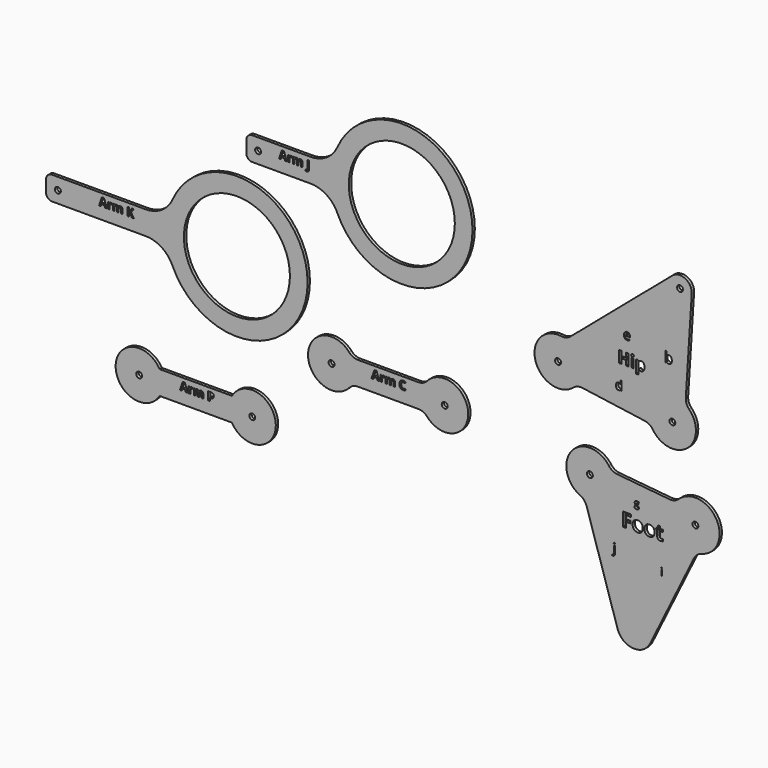
from build123d import *

# Parameters (mm, degrees)
F0_R      = 3.175
F0_R_2    = 57.15
F1_DEPTH  = 3.175
F2_R      = 3.175
F2_R_2    = 57.15
F3_DEPTH  = 3.175
F4_R      = 3.175
F5_DEPTH  = 3.175
F6_R      = 3.175
F7_DEPTH  = 3.175
F8_R      = 3.175
F8_W      = 2.5973723702
F8_H      = 9.5227902008
F9_DEPTH  = 3.175
F10_W     = 0.9204528943
F10_H     = 6.0742796972
F10_R     = 3.175
F11_DEPTH = 3.175


with BuildPart() as f1:
    # F0 (on Front) → F1 (new body)
    with BuildSketch(Plane.XZ):
        with BuildLine():
            Line((-84.5527777471, 124.6368664593), (-147.4690007535, 124.6368664593))
            ThreePointArc((-147.4690007535, 124.6368664593), (-151.959128814, 122.7769945198), (-153.8190007535, 118.2868664593))
            Line((-153.8190007535, 118.2868664593), (-153.8190007535, 105.5868664593))
            ThreePointArc((-153.8190007535, 105.5868664593), (-151.959128814, 101.0967383987), (-147.4690007535, 99.2368664593))
            Line((-147.4690007535, 99.2368664593), (-84.5527777471, 99.2368664593))
            ThreePointArc((-84.5527777471, 99.2368664593), (-67.3339226578, 94.16220206), (-55.6193139255, 80.560395871))
            ThreePointArc((-55.6193139255, 80.560395871), (90.0209992465, 111.9368664593), (-55.6193139255, 143.3133370475))
            ThreePointArc((-55.6193139255, 143.3133370475), (-67.3339226578, 129.7115308585), (-84.5527777471, 124.6368664593))
        make_face()
        with Locations((-141.1190007535, 111.9368664593)):
            Circle(F0_R, mode=Mode.SUBTRACT)
        Polygon((-110.0772225294, 111.9368664593), (-112.0880343789, 111.9368664593), (-112.7255618906, 114.0324251683), (-115.9343861638, 114.0324251683), (-116.5719136754, 111.9368664593), (-118.5827255249, 111.9368664593), (-115.4759826962, 120.773652633), (-113.1955217481, 120.773652633), align=None, mode=Mode.SUBTRACT)
        with BuildLine():
            add(Edge.make_bspline(
                [(-106.5168913956, 118.4460030927), (-105.9843344259, 118.7917317584), (-105.3583633041, 118.7917317584)],
                knots=[0, 0, 0, 1, 1, 1], degree=2))
            add(Edge.make_bspline(
                [(-105.3583633041, 118.7917317584), (-104.9847066961, 118.7917317584), (-104.7381703774, 118.7378019386)],
                knots=[0, 0, 0, 1, 1, 1], degree=2))
            Line((-104.7381703774, 118.7378019386), (-104.8768470566, 117.0178259027))
            add(Edge.make_bspline(
                [(-104.8768470566, 117.0178259027), (-105.1002705955, 117.0775339173), (-105.4180713188, 117.0775339173)],
                knots=[0, 0, 0, 1, 1, 1], degree=2))
            add(Edge.make_bspline(
                [(-105.4180713188, 117.0775339173), (-106.2963569542, 117.0775339173), (-106.7875035266, 116.6258716772)],
                knots=[0, 0, 0, 1, 1, 1], degree=2))
            add(Edge.make_bspline(
                [(-106.7875035266, 116.6258716772), (-107.2786500991, 116.1742094371), (-107.2786500991, 115.3614100113)],
                knots=[0, 0, 0, 1, 1, 1], degree=2))
            Line((-107.2786500991, 115.3614100113), (-107.2786500991, 111.9368664593))
            Line((-107.2786500991, 111.9368664593), (-109.1141900345, 111.9368664593))
            Line((-109.1141900345, 111.9368664593), (-109.1141900345, 118.666537534))
            Line((-109.1141900345, 118.666537534), (-107.7235711117, 118.666537534))
            Line((-107.7235711117, 118.666537534), (-107.4519959482, 117.53401132))
            Line((-107.4519959482, 117.53401132), (-107.3633969586, 117.53401132))
            add(Edge.make_bspline(
                [(-107.3633969586, 117.53401132), (-107.0494483653, 118.100274427), (-106.5168913956, 118.4460030927)],
                knots=[0, 0, 0, 1, 1, 1], degree=2))
        make_face(mode=Mode.SUBTRACT)
        with BuildLine():
            Line((-97.4923138853, 115.3132583866), (-97.4923138853, 111.9368664593))
            Line((-97.4923138853, 111.9368664593), (-99.3278538207, 111.9368664593))
            Line((-99.3278538207, 111.9368664593), (-99.3278538207, 115.8679651037))
            add(Edge.make_bspline(
                [(-99.3278538207, 115.8679651037), (-99.3278538207, 116.5960176699), (-99.5715010419, 116.960043953)],
                knots=[0, 0, 0, 1, 1, 1], degree=2))
            add(Edge.make_bspline(
                [(-99.5715010419, 116.960043953), (-99.8151482631, 117.324070236), (-100.3390379404, 117.324070236)],
                knots=[0, 0, 0, 1, 1, 1], degree=2))
            add(Edge.make_bspline(
                [(-100.3390379404, 117.324070236), (-101.0439777267, 117.324070236), (-101.3627414825, 116.8059587538)],
                knots=[0, 0, 0, 1, 1, 1], degree=2))
            add(Edge.make_bspline(
                [(-101.3627414825, 116.8059587538), (-101.6815052384, 116.2878472715), (-101.6815052384, 115.1033173027)],
                knots=[0, 0, 0, 1, 1, 1], degree=2))
            Line((-101.6815052384, 115.1033173027), (-101.6815052384, 111.9368664593))
            Line((-101.6815052384, 111.9368664593), (-103.5170451738, 111.9368664593))
            Line((-103.5170451738, 111.9368664593), (-103.5170451738, 118.666537534))
            Line((-103.5170451738, 118.666537534), (-102.1148698611, 118.666537534))
            Line((-102.1148698611, 118.666537534), (-101.8683335424, 117.8055864835))
            Line((-101.8683335424, 117.8055864835), (-101.7662520979, 117.8055864835))
            add(Edge.make_bspline(
                [(-101.7662520979, 117.8055864835), (-101.4946769344, 118.2697681461), (-100.9833066795, 118.5307499522)],
                knots=[0, 0, 0, 1, 1, 1], degree=2))
            add(Edge.make_bspline(
                [(-100.9833066795, 118.5307499522), (-100.4719364247, 118.7917317584), (-99.8093700682, 118.7917317584)],
                knots=[0, 0, 0, 1, 1, 1], degree=2))
            add(Edge.make_bspline(
                [(-99.8093700682, 118.7917317584), (-98.2993351161, 118.7917317584), (-97.7619629839, 117.8055864835)],
                knots=[0, 0, 0, 1, 1, 1], degree=2))
            Line((-97.7619629839, 117.8055864835), (-97.6001735247, 117.8055864835))
            add(Edge.make_bspline(
                [(-97.6001735247, 117.8055864835), (-97.3285983612, 118.2755463411), (-96.8027826189, 118.5336390497)],
                knots=[0, 0, 0, 1, 1, 1], degree=2))
            add(Edge.make_bspline(
                [(-96.8027826189, 118.5336390497), (-96.2769668767, 118.7917317584), (-95.6144005201, 118.7917317584)],
                knots=[0, 0, 0, 1, 1, 1], degree=2))
            add(Edge.make_bspline(
                [(-95.6144005201, 118.7917317584), (-94.4703179161, 118.7917317584), (-93.8838311267, 118.2052449689)],
                knots=[0, 0, 0, 1, 1, 1], degree=2))
            add(Edge.make_bspline(
                [(-93.8838311267, 118.2052449689), (-93.2973443373, 117.6187581795), (-93.2973443373, 116.3244425063)],
                knots=[0, 0, 0, 1, 1, 1], degree=2))
            Line((-93.2973443373, 116.3244425063), (-93.2973443373, 111.9368664593))
            Line((-93.2973443373, 111.9368664593), (-95.1386624676, 111.9368664593))
            Line((-95.1386624676, 111.9368664593), (-95.1386624676, 115.8679651037))
            add(Edge.make_bspline(
                [(-95.1386624676, 115.8679651037), (-95.1386624676, 116.5960176699), (-95.3823096888, 116.960043953)],
                knots=[0, 0, 0, 1, 1, 1], degree=2))
            add(Edge.make_bspline(
                [(-95.3823096888, 116.960043953), (-95.6259569101, 117.324070236), (-96.1498465873, 117.324070236)],
                knots=[0, 0, 0, 1, 1, 1], degree=2))
            add(Edge.make_bspline(
                [(-96.1498465873, 117.324070236), (-96.8239693338, 117.324070236), (-97.1581416096, 116.8425539886)],
                knots=[0, 0, 0, 1, 1, 1], degree=2))
            add(Edge.make_bspline(
                [(-97.1581416096, 116.8425539886), (-97.4923138853, 116.3610377411), (-97.4923138853, 115.3132583866)],
                knots=[0, 0, 0, 1, 1, 1], degree=2))
        make_face(mode=Mode.SUBTRACT)
        with BuildLine():
            add(Edge.make_bspline(
                [(-86.9037716032, 110.1552563436), (-87.607748357, 109.3482351128), (-88.9868108898, 109.3482351128)],
                knots=[0, 0, 0, 1, 1, 1], degree=2))
            add(Edge.make_bspline(
                [(-88.9868108898, 109.3482351128), (-89.6185602065, 109.3482351128), (-90.0885200641, 109.4811335971)],
                knots=[0, 0, 0, 1, 1, 1], degree=2))
            Line((-90.0885200641, 109.4811335971), (-90.0885200641, 111.033541979))
            add(Edge.make_bspline(
                [(-90.0885200641, 111.033541979), (-89.6070038166, 110.9141259496), (-89.2102344287, 110.9141259496)],
                knots=[0, 0, 0, 1, 1, 1], degree=2))
            add(Edge.make_bspline(
                [(-89.2102344287, 110.9141259496), (-88.5958196969, 110.9141259496), (-88.3309857608, 111.2964498501)],
                knots=[0, 0, 0, 1, 1, 1], degree=2))
            add(Edge.make_bspline(
                [(-88.3309857608, 111.2964498501), (-88.0661518246, 111.6787737506), (-88.0661518246, 112.4915731763)],
                knots=[0, 0, 0, 1, 1, 1], degree=2))
            Line((-88.0661518246, 112.4915731763), (-88.0661518246, 120.7370573982))
            Line((-88.0661518246, 120.7370573982), (-86.1997948494, 120.7370573982))
            Line((-86.1997948494, 120.7370573982), (-86.1997948494, 112.5031295663))
            add(Edge.make_bspline(
                [(-86.1997948494, 112.5031295663), (-86.1997948494, 110.9622775744), (-86.9037716032, 110.1552563436)],
                knots=[0, 0, 0, 1, 1, 1], degree=2))
        make_face(mode=Mode.SUBTRACT)
        with Locations((13.8209992465, 111.9368664593)):
            Circle(F0_R_2, mode=Mode.SUBTRACT)
    extrude(amount=F1_DEPTH)


with BuildPart() as f3:
    # F2 (on Front) → F3 (new body)
    with BuildSketch(Plane.XZ):
        with BuildLine():
            Line((-262.3535406851, 16.9797487695), (-363.3697636914, 16.9797487695))
            ThreePointArc((-363.3697636914, 16.9797487695), (-367.859891752, 15.11987683), (-369.7197636914, 10.6297487695))
            Line((-369.7197636914, 10.6297487695), (-369.7197636914, -2.0702512305))
            ThreePointArc((-369.7197636914, -2.0702512305), (-367.859891752, -6.5603792911), (-363.3697636914, -8.4202512305))
            Line((-363.3697636914, -8.4202512305), (-262.3535406851, -8.4202512305))
            ThreePointArc((-262.3535406851, -8.4202512305), (-245.1346855957, -13.4949156298), (-233.4200768634, -27.0967218188))
            ThreePointArc((-233.4200768634, -27.0967218188), (-87.7797636914, 4.2797487695), (-233.4200768634, 35.6562193577))
            ThreePointArc((-233.4200768634, 35.6562193577), (-245.1346855957, 22.0544131687), (-262.3535406851, 16.9797487695))
        make_face()
        with Locations((-357.0197636914, 4.2797487695)):
            Circle(F2_R, mode=Mode.SUBTRACT)
        Polygon((-304.1366382498, 4.2797487695), (-306.1474500993, 4.2797487695), (-306.784977611, 6.3753074785), (-309.9938018842, 6.3753074785), (-310.6313293958, 4.2797487695), (-312.6421412453, 4.2797487695), (-309.5353984166, 13.1165349432), (-307.2549374685, 13.1165349432), align=None, mode=Mode.SUBTRACT)
        with BuildLine():
            add(Edge.make_bspline(
                [(-300.576307116, 10.7888854029), (-300.0437501463, 11.1346140686), (-299.4177790245, 11.1346140686)],
                knots=[0, 0, 0, 1, 1, 1], degree=2))
            add(Edge.make_bspline(
                [(-299.4177790245, 11.1346140686), (-299.0441224165, 11.1346140686), (-298.7975860978, 11.0806842489)],
                knots=[0, 0, 0, 1, 1, 1], degree=2))
            Line((-298.7975860978, 11.0806842489), (-298.9362627771, 9.3607082129))
            add(Edge.make_bspline(
                [(-298.9362627771, 9.3607082129), (-299.1596863159, 9.4204162276), (-299.4774870392, 9.4204162276)],
                knots=[0, 0, 0, 1, 1, 1], degree=2))
            add(Edge.make_bspline(
                [(-299.4774870392, 9.4204162276), (-300.3557726746, 9.4204162276), (-300.8469192471, 8.9687539874)],
                knots=[0, 0, 0, 1, 1, 1], degree=2))
            add(Edge.make_bspline(
                [(-300.8469192471, 8.9687539874), (-301.3380658195, 8.5170917473), (-301.3380658195, 7.7042923216)],
                knots=[0, 0, 0, 1, 1, 1], degree=2))
            Line((-301.3380658195, 7.7042923216), (-301.3380658195, 4.2797487695))
            Line((-301.3380658195, 4.2797487695), (-303.1736057549, 4.2797487695))
            Line((-303.1736057549, 4.2797487695), (-303.1736057549, 11.0094198443))
            Line((-303.1736057549, 11.0094198443), (-301.7829868322, 11.0094198443))
            Line((-301.7829868322, 11.0094198443), (-301.5114116686, 9.8768936302))
            Line((-301.5114116686, 9.8768936302), (-301.422812679, 9.8768936302))
            add(Edge.make_bspline(
                [(-301.422812679, 9.8768936302), (-301.1088640857, 10.4431567372), (-300.576307116, 10.7888854029)],
                knots=[0, 0, 0, 1, 1, 1], degree=2))
        make_face(mode=Mode.SUBTRACT)
        with BuildLine():
            Line((-291.5517296057, 7.6561406968), (-291.5517296057, 4.2797487695))
            Line((-291.5517296057, 4.2797487695), (-293.3872695411, 4.2797487695))
            Line((-293.3872695411, 4.2797487695), (-293.3872695411, 8.2108474139))
            add(Edge.make_bspline(
                [(-293.3872695411, 8.2108474139), (-293.3872695411, 8.9388999801), (-293.6309167623, 9.3029262632)],
                knots=[0, 0, 0, 1, 1, 1], degree=2))
            add(Edge.make_bspline(
                [(-293.6309167623, 9.3029262632), (-293.8745639835, 9.6669525463), (-294.3984536608, 9.6669525463)],
                knots=[0, 0, 0, 1, 1, 1], degree=2))
            add(Edge.make_bspline(
                [(-294.3984536608, 9.6669525463), (-295.1033934471, 9.6669525463), (-295.4221572029, 9.148841064)],
                knots=[0, 0, 0, 1, 1, 1], degree=2))
            add(Edge.make_bspline(
                [(-295.4221572029, 9.148841064), (-295.7409209588, 8.6307295817), (-295.7409209588, 7.4461996129)],
                knots=[0, 0, 0, 1, 1, 1], degree=2))
            Line((-295.7409209588, 7.4461996129), (-295.7409209588, 4.2797487695))
            Line((-295.7409209588, 4.2797487695), (-297.5764608942, 4.2797487695))
            Line((-297.5764608942, 4.2797487695), (-297.5764608942, 11.0094198443))
            Line((-297.5764608942, 11.0094198443), (-296.1742855815, 11.0094198443))
            Line((-296.1742855815, 11.0094198443), (-295.9277492628, 10.1484687938))
            Line((-295.9277492628, 10.1484687938), (-295.8256678183, 10.1484687938))
            add(Edge.make_bspline(
                [(-295.8256678183, 10.1484687938), (-295.5540926548, 10.6126504563), (-295.0427223999, 10.8736322625)],
                knots=[0, 0, 0, 1, 1, 1], degree=2))
            add(Edge.make_bspline(
                [(-295.0427223999, 10.8736322625), (-294.5313521451, 11.1346140686), (-293.8687857886, 11.1346140686)],
                knots=[0, 0, 0, 1, 1, 1], degree=2))
            add(Edge.make_bspline(
                [(-293.8687857886, 11.1346140686), (-292.3587508365, 11.1346140686), (-291.8213787043, 10.1484687938)],
                knots=[0, 0, 0, 1, 1, 1], degree=2))
            Line((-291.8213787043, 10.1484687938), (-291.6595892451, 10.1484687938))
            add(Edge.make_bspline(
                [(-291.6595892451, 10.1484687938), (-291.3880140816, 10.6184286513), (-290.8621983393, 10.8765213599)],
                knots=[0, 0, 0, 1, 1, 1], degree=2))
            add(Edge.make_bspline(
                [(-290.8621983393, 10.8765213599), (-290.3363825971, 11.1346140686), (-289.6738162405, 11.1346140686)],
                knots=[0, 0, 0, 1, 1, 1], degree=2))
            add(Edge.make_bspline(
                [(-289.6738162405, 11.1346140686), (-288.5297336365, 11.1346140686), (-287.9432468471, 10.5481272792)],
                knots=[0, 0, 0, 1, 1, 1], degree=2))
            add(Edge.make_bspline(
                [(-287.9432468471, 10.5481272792), (-287.3567600577, 9.9616404897), (-287.3567600577, 8.6673248165)],
                knots=[0, 0, 0, 1, 1, 1], degree=2))
            Line((-287.3567600577, 8.6673248165), (-287.3567600577, 4.2797487695))
            Line((-287.3567600577, 4.2797487695), (-289.198078188, 4.2797487695))
            Line((-289.198078188, 4.2797487695), (-289.198078188, 8.2108474139))
            add(Edge.make_bspline(
                [(-289.198078188, 8.2108474139), (-289.198078188, 8.9388999801), (-289.4417254093, 9.3029262632)],
                knots=[0, 0, 0, 1, 1, 1], degree=2))
            add(Edge.make_bspline(
                [(-289.4417254093, 9.3029262632), (-289.6853726305, 9.6669525463), (-290.2092623077, 9.6669525463)],
                knots=[0, 0, 0, 1, 1, 1], degree=2))
            add(Edge.make_bspline(
                [(-290.2092623077, 9.6669525463), (-290.8833850542, 9.6669525463), (-291.21755733, 9.1854362988)],
                knots=[0, 0, 0, 1, 1, 1], degree=2))
            add(Edge.make_bspline(
                [(-291.21755733, 9.1854362988), (-291.5517296057, 8.7039200513), (-291.5517296057, 7.6561406968)],
                knots=[0, 0, 0, 1, 1, 1], degree=2))
        make_face(mode=Mode.SUBTRACT)
        Polygon((-278.1405390809, 9.1854362988), (-275.0472787071, 4.2797487695), (-277.165950196, 4.2797487695), (-279.4714499889, 7.9874238751), (-280.2592105698, 7.421160768), (-280.2592105698, 4.2797487695), (-282.125567545, 4.2797487695), (-282.125567545, 13.0799397084), (-280.2592105698, 13.0799397084), (-280.2592105698, 9.0525378145), (-279.5253798087, 10.0887607791), (-277.1409113511, 13.0799397084), (-275.070391487, 13.0799397084), align=None, mode=Mode.SUBTRACT)
        with Locations((-163.9797636914, 4.2797487695)):
            Circle(F2_R_2, mode=Mode.SUBTRACT)
    extrude(amount=F3_DEPTH)


with BuildPart() as f5:
    # F4 (on Front) → F5 (new body)
    with BuildSketch(Plane.XZ):
        with BuildLine():
            Line((31.6179642555, -51.5044320703), (-33.505909116, -51.5044320703))
            ThreePointArc((-33.505909116, -51.5044320703), (-38.6906624049, -50.3978928708), (-42.9719302207, -47.2710987369))
            ThreePointArc((-42.9719302207, -47.2710987369), (-87.3039724302, -64.2044320703), (-42.9719302207, -81.1377654036))
            ThreePointArc((-42.9719302207, -81.1377654036), (-38.6906624049, -78.0109712697), (-33.505909116, -76.9044320703))
            Line((-33.505909116, -76.9044320703), (31.6179642555, -76.9044320703))
            ThreePointArc((31.6179642555, -76.9044320703), (36.8027175444, -78.0109712697), (41.0839853603, -81.1377654036))
            ThreePointArc((41.0839853603, -81.1377654036), (85.4160275698, -64.2044320703), (41.0839853603, -47.2710987369))
            ThreePointArc((41.0839853603, -47.2710987369), (36.8027175444, -50.3978928708), (31.6179642555, -51.5044320703))
        make_face()
        with Locations((-61.9039724302, -64.2044320703)):
            Circle(F4_R, mode=Mode.SUBTRACT)
        Polygon((-10.3348872621, -64.2044320703), (-12.3456991115, -64.2044320703), (-12.9832266232, -62.1088733612), (-16.1920508964, -62.1088733612), (-16.8295784081, -64.2044320703), (-18.8403902575, -64.2044320703), (-15.7336474288, -55.3676458965), (-13.4531864807, -55.3676458965), align=None, mode=Mode.SUBTRACT)
        with BuildLine():
            add(Edge.make_bspline(
                [(-6.7745561282, -57.6952954368), (-6.2419991585, -57.3495667711), (-5.6160280368, -57.3495667711)],
                knots=[0, 0, 0, 1, 1, 1], degree=2))
            add(Edge.make_bspline(
                [(-5.6160280368, -57.3495667711), (-5.2423714287, -57.3495667711), (-4.99583511, -57.4034965909)],
                knots=[0, 0, 0, 1, 1, 1], degree=2))
            Line((-4.99583511, -57.4034965909), (-5.1345117893, -59.1234726269))
            add(Edge.make_bspline(
                [(-5.1345117893, -59.1234726269), (-5.3579353281, -59.0637646122), (-5.6757360514, -59.0637646122)],
                knots=[0, 0, 0, 1, 1, 1], degree=2))
            add(Edge.make_bspline(
                [(-5.6757360514, -59.0637646122), (-6.5540216869, -59.0637646122), (-7.0451682593, -59.5154268523)],
                knots=[0, 0, 0, 1, 1, 1], degree=2))
            add(Edge.make_bspline(
                [(-7.0451682593, -59.5154268523), (-7.5363148317, -59.9670890924), (-7.5363148317, -60.7798885182)],
                knots=[0, 0, 0, 1, 1, 1], degree=2))
            Line((-7.5363148317, -60.7798885182), (-7.5363148317, -64.2044320703))
            Line((-7.5363148317, -64.2044320703), (-9.3718547671, -64.2044320703))
            Line((-9.3718547671, -64.2044320703), (-9.3718547671, -57.4747609955))
            Line((-9.3718547671, -57.4747609955), (-7.9812358444, -57.4747609955))
            Line((-7.9812358444, -57.4747609955), (-7.7096606808, -58.6072872096))
            Line((-7.7096606808, -58.6072872096), (-7.6210616913, -58.6072872096))
            add(Edge.make_bspline(
                [(-7.6210616913, -58.6072872096), (-7.3071130979, -58.0410241025), (-6.7745561282, -57.6952954368)],
                knots=[0, 0, 0, 1, 1, 1], degree=2))
        make_face(mode=Mode.SUBTRACT)
        with BuildLine():
            Line((2.2500213821, -60.8280401429), (2.2500213821, -64.2044320703))
            Line((2.2500213821, -64.2044320703), (0.4144814467, -64.2044320703))
            Line((0.4144814467, -64.2044320703), (0.4144814467, -60.2733334258))
            add(Edge.make_bspline(
                [(0.4144814467, -60.2733334258), (0.4144814467, -59.5452808596), (0.1708342254, -59.1812545766)],
                knots=[0, 0, 0, 1, 1, 1], degree=2))
            add(Edge.make_bspline(
                [(0.1708342254, -59.1812545766), (-0.0728129958, -58.8172282935), (-0.596702673, -58.8172282935)],
                knots=[0, 0, 0, 1, 1, 1], degree=2))
            add(Edge.make_bspline(
                [(-0.596702673, -58.8172282935), (-1.3016424593, -58.8172282935), (-1.6204062152, -59.3353397757)],
                knots=[0, 0, 0, 1, 1, 1], degree=2))
            add(Edge.make_bspline(
                [(-1.6204062152, -59.3353397757), (-1.939169971, -59.853451258), (-1.939169971, -61.0379812268)],
                knots=[0, 0, 0, 1, 1, 1], degree=2))
            Line((-1.939169971, -61.0379812268), (-1.939169971, -64.2044320703))
            Line((-1.939169971, -64.2044320703), (-3.7747099064, -64.2044320703))
            Line((-3.7747099064, -64.2044320703), (-3.7747099064, -57.4747609955))
            Line((-3.7747099064, -57.4747609955), (-2.3725345937, -57.4747609955))
            Line((-2.3725345937, -57.4747609955), (-2.125998275, -58.335712046))
            Line((-2.125998275, -58.335712046), (-2.0239168306, -58.335712046))
            add(Edge.make_bspline(
                [(-2.0239168306, -58.335712046), (-1.752341667, -57.8715303834), (-1.2409714122, -57.6105485773)],
                knots=[0, 0, 0, 1, 1, 1], degree=2))
            add(Edge.make_bspline(
                [(-1.2409714122, -57.6105485773), (-0.7296011573, -57.3495667711), (-0.0670348008, -57.3495667711)],
                knots=[0, 0, 0, 1, 1, 1], degree=2))
            add(Edge.make_bspline(
                [(-0.0670348008, -57.3495667711), (1.4430001513, -57.3495667711), (1.9803722835, -58.335712046)],
                knots=[0, 0, 0, 1, 1, 1], degree=2))
            Line((1.9803722835, -58.335712046), (2.1421617426, -58.335712046))
            add(Edge.make_bspline(
                [(2.1421617426, -58.335712046), (2.4137369062, -57.8657521884), (2.9395526485, -57.6076594798)],
                knots=[0, 0, 0, 1, 1, 1], degree=2))
            add(Edge.make_bspline(
                [(2.9395526485, -57.6076594798), (3.4653683907, -57.3495667711), (4.1279347472, -57.3495667711)],
                knots=[0, 0, 0, 1, 1, 1], degree=2))
            add(Edge.make_bspline(
                [(4.1279347472, -57.3495667711), (5.2720173512, -57.3495667711), (5.8585041407, -57.9360535606)],
                knots=[0, 0, 0, 1, 1, 1], degree=2))
            add(Edge.make_bspline(
                [(5.8585041407, -57.9360535606), (6.4449909301, -58.52254035), (6.4449909301, -59.8168560232)],
                knots=[0, 0, 0, 1, 1, 1], degree=2))
            Line((6.4449909301, -59.8168560232), (6.4449909301, -64.2044320703))
            Line((6.4449909301, -64.2044320703), (4.6036727997, -64.2044320703))
            Line((4.6036727997, -64.2044320703), (4.6036727997, -60.2733334258))
            add(Edge.make_bspline(
                [(4.6036727997, -60.2733334258), (4.6036727997, -59.5452808596), (4.3600255785, -59.1812545766)],
                knots=[0, 0, 0, 1, 1, 1], degree=2))
            add(Edge.make_bspline(
                [(4.3600255785, -59.1812545766), (4.1163783573, -58.8172282935), (3.59248868, -58.8172282935)],
                knots=[0, 0, 0, 1, 1, 1], degree=2))
            add(Edge.make_bspline(
                [(3.59248868, -58.8172282935), (2.9183659336, -58.8172282935), (2.5841936578, -59.2987445409)],
                knots=[0, 0, 0, 1, 1, 1], degree=2))
            add(Edge.make_bspline(
                [(2.5841936578, -59.2987445409), (2.2500213821, -59.7802607884), (2.2500213821, -60.8280401429)],
                knots=[0, 0, 0, 1, 1, 1], degree=2))
        make_face(mode=Mode.SUBTRACT)
        with BuildLine():
            add(Edge.make_bspline(
                [(16.395042668, -57.0057641704), (15.8961918356, -56.8314552889), (15.4146755881, -56.8314552889)],
                knots=[0, 0, 0, 1, 1, 1], degree=2))
            add(Edge.make_bspline(
                [(15.4146755881, -56.8314552889), (14.3611180387, -56.8314552889), (13.7832985417, -57.6230679997)],
                knots=[0, 0, 0, 1, 1, 1], degree=2))
            add(Edge.make_bspline(
                [(13.7832985417, -57.6230679997), (13.2054790447, -58.4146807106), (13.2054790447, -59.8284124132)],
                knots=[0, 0, 0, 1, 1, 1], degree=2))
            add(Edge.make_bspline(
                [(13.2054790447, -59.8284124132), (13.2054790447, -62.7714397178), (15.4146755881, -62.7714397178)],
                knots=[0, 0, 0, 1, 1, 1], degree=2))
            add(Edge.make_bspline(
                [(15.4146755881, -62.7714397178), (16.3411128483, -62.7714397178), (17.6585413014, -62.3091841202)],
                knots=[0, 0, 0, 1, 1, 1], degree=2))
            Line((17.6585413014, -62.3091841202), (17.6585413014, -63.873148892))
            add(Edge.make_bspline(
                [(17.6585413014, -63.873148892), (16.5760927771, -64.3257741646), (15.2394036741, -64.3257741646)],
                knots=[0, 0, 0, 1, 1, 1], degree=2))
            add(Edge.make_bspline(
                [(15.2394036741, -64.3257741646), (13.3191168791, -64.3257741646), (12.3021545644, -63.1605048457)],
                knots=[0, 0, 0, 1, 1, 1], degree=2))
            add(Edge.make_bspline(
                [(12.3021545644, -63.1605048457), (11.2851922498, -61.9952355268), (11.2851922498, -59.8168560232)],
                knots=[0, 0, 0, 1, 1, 1], degree=2))
            add(Edge.make_bspline(
                [(11.2851922498, -59.8168560232), (11.2851922498, -58.4435716854), (11.7850061146, -57.4112008508)],
                knots=[0, 0, 0, 1, 1, 1], degree=2))
            add(Edge.make_bspline(
                [(11.7850061146, -57.4112008508), (12.2848199795, -56.3788300162), (13.2208875646, -55.8289384616)],
                knots=[0, 0, 0, 1, 1, 1], degree=2))
            add(Edge.make_bspline(
                [(13.2208875646, -55.8289384616), (14.1569551497, -55.279046907), (15.4146755881, -55.279046907)],
                knots=[0, 0, 0, 1, 1, 1], degree=2))
            add(Edge.make_bspline(
                [(15.4146755881, -55.279046907), (16.6955088064, -55.279046907), (17.9898244797, -55.8973137687)],
                knots=[0, 0, 0, 1, 1, 1], degree=2))
            Line((17.9898244797, -55.8973137687), (17.3888922028, -57.4150529808))
            add(Edge.make_bspline(
                [(17.3888922028, -57.4150529808), (16.8938935004, -57.180073052), (16.395042668, -57.0057641704)],
                knots=[0, 0, 0, 1, 1, 1], degree=2))
        make_face(mode=Mode.SUBTRACT)
        with Locations((60.0160275698, -64.2044320703)):
            Circle(F4_R, mode=Mode.SUBTRACT)
    extrude(amount=F5_DEPTH)


with BuildPart() as f7:
    # F6 (on Front) → F7 (new body)
    with BuildSketch(Plane.XZ):
        with BuildLine():
            Line((-169.4220794215, -129.8281465054), (-247.3479889093, -129.8281465054))
            ThreePointArc((-247.3479889093, -129.8281465054), (-294.7450341654, -142.5281465054), (-247.3479889093, -155.2281465054))
            Line((-247.3479889093, -155.2281465054), (-169.4220794215, -155.2281465054))
            ThreePointArc((-169.4220794215, -155.2281465054), (-122.0250341654, -142.5281465054), (-169.4220794215, -129.8281465054))
        make_face()
        with Locations((-269.3450341654, -142.5281465054)):
            Circle(F6_R, mode=Mode.SUBTRACT)
        Polygon((-216.995645966, -142.5281465054), (-219.0064578155, -142.5281465054), (-219.6439853271, -140.4325877963), (-222.8528096003, -140.4325877963), (-223.490337112, -142.5281465054), (-225.5011489615, -142.5281465054), (-222.3944061327, -133.6913603316), (-220.1139451847, -133.6913603316), align=None, mode=Mode.SUBTRACT)
        with BuildLine():
            add(Edge.make_bspline(
                [(-213.4353148321, -136.0190098719), (-212.9027578624, -135.6732812062), (-212.2767867407, -135.6732812062)],
                knots=[0, 0, 0, 1, 1, 1], degree=2))
            add(Edge.make_bspline(
                [(-212.2767867407, -135.6732812062), (-211.9031301327, -135.6732812062), (-211.656593814, -135.727211026)],
                knots=[0, 0, 0, 1, 1, 1], degree=2))
            Line((-211.656593814, -135.727211026), (-211.7952704932, -137.447187062))
            add(Edge.make_bspline(
                [(-211.7952704932, -137.447187062), (-212.0186940321, -137.3874790473), (-212.3364947554, -137.3874790473)],
                knots=[0, 0, 0, 1, 1, 1], degree=2))
            add(Edge.make_bspline(
                [(-212.3364947554, -137.3874790473), (-213.2147803908, -137.3874790473), (-213.7059269632, -137.8391412874)],
                knots=[0, 0, 0, 1, 1, 1], degree=2))
            add(Edge.make_bspline(
                [(-213.7059269632, -137.8391412874), (-214.1970735357, -138.2908035275), (-214.1970735357, -139.1036029533)],
                knots=[0, 0, 0, 1, 1, 1], degree=2))
            Line((-214.1970735357, -139.1036029533), (-214.1970735357, -142.5281465054))
            Line((-214.1970735357, -142.5281465054), (-216.032613471, -142.5281465054))
            Line((-216.032613471, -142.5281465054), (-216.032613471, -135.7984754306))
            Line((-216.032613471, -135.7984754306), (-214.6419945483, -135.7984754306))
            Line((-214.6419945483, -135.7984754306), (-214.3704193848, -136.9310016447))
            Line((-214.3704193848, -136.9310016447), (-214.2818203952, -136.9310016447))
            add(Edge.make_bspline(
                [(-214.2818203952, -136.9310016447), (-213.9678718019, -136.3647385376), (-213.4353148321, -136.0190098719)],
                knots=[0, 0, 0, 1, 1, 1], degree=2))
        make_face(mode=Mode.SUBTRACT)
        with BuildLine():
            Line((-204.4107373219, -139.151754578), (-204.4107373219, -142.5281465054))
            Line((-204.4107373219, -142.5281465054), (-206.2462772573, -142.5281465054))
            Line((-206.2462772573, -142.5281465054), (-206.2462772573, -138.5970478609))
            add(Edge.make_bspline(
                [(-206.2462772573, -138.5970478609), (-206.2462772573, -137.8689952947), (-206.4899244785, -137.5049690117)],
                knots=[0, 0, 0, 1, 1, 1], degree=2))
            add(Edge.make_bspline(
                [(-206.4899244785, -137.5049690117), (-206.7335716997, -137.1409427286), (-207.257461377, -137.1409427286)],
                knots=[0, 0, 0, 1, 1, 1], degree=2))
            add(Edge.make_bspline(
                [(-207.257461377, -137.1409427286), (-207.9624011633, -137.1409427286), (-208.2811649191, -137.6590542108)],
                knots=[0, 0, 0, 1, 1, 1], degree=2))
            add(Edge.make_bspline(
                [(-208.2811649191, -137.6590542108), (-208.599928675, -138.1771656931), (-208.599928675, -139.3616956619)],
                knots=[0, 0, 0, 1, 1, 1], degree=2))
            Line((-208.599928675, -139.3616956619), (-208.599928675, -142.5281465054))
            Line((-208.599928675, -142.5281465054), (-210.4354686103, -142.5281465054))
            Line((-210.4354686103, -142.5281465054), (-210.4354686103, -135.7984754306))
            Line((-210.4354686103, -135.7984754306), (-209.0332932977, -135.7984754306))
            Line((-209.0332932977, -135.7984754306), (-208.786756979, -136.6594264811))
            Line((-208.786756979, -136.6594264811), (-208.6846755345, -136.6594264811))
            add(Edge.make_bspline(
                [(-208.6846755345, -136.6594264811), (-208.4131003709, -136.1952448185), (-207.9017301161, -135.9342630124)],
                knots=[0, 0, 0, 1, 1, 1], degree=2))
            add(Edge.make_bspline(
                [(-207.9017301161, -135.9342630124), (-207.3903598613, -135.6732812062), (-206.7277935048, -135.6732812062)],
                knots=[0, 0, 0, 1, 1, 1], degree=2))
            add(Edge.make_bspline(
                [(-206.7277935048, -135.6732812062), (-205.2177585527, -135.6732812062), (-204.6803864205, -136.6594264811)],
                knots=[0, 0, 0, 1, 1, 1], degree=2))
            Line((-204.6803864205, -136.6594264811), (-204.5185969613, -136.6594264811))
            add(Edge.make_bspline(
                [(-204.5185969613, -136.6594264811), (-204.2470217977, -136.1894666235), (-203.7212060555, -135.9313739149)],
                knots=[0, 0, 0, 1, 1, 1], degree=2))
            add(Edge.make_bspline(
                [(-203.7212060555, -135.9313739149), (-203.1953903132, -135.6732812062), (-202.5328239567, -135.6732812062)],
                knots=[0, 0, 0, 1, 1, 1], degree=2))
            add(Edge.make_bspline(
                [(-202.5328239567, -135.6732812062), (-201.3887413527, -135.6732812062), (-200.8022545633, -136.2597679957)],
                knots=[0, 0, 0, 1, 1, 1], degree=2))
            add(Edge.make_bspline(
                [(-200.8022545633, -136.2597679957), (-200.2157677738, -136.8462547851), (-200.2157677738, -138.1405704583)],
                knots=[0, 0, 0, 1, 1, 1], degree=2))
            Line((-200.2157677738, -138.1405704583), (-200.2157677738, -142.5281465054))
            Line((-200.2157677738, -142.5281465054), (-202.0570859042, -142.5281465054))
            Line((-202.0570859042, -142.5281465054), (-202.0570859042, -138.5970478609))
            add(Edge.make_bspline(
                [(-202.0570859042, -138.5970478609), (-202.0570859042, -137.8689952947), (-202.3007331254, -137.5049690117)],
                knots=[0, 0, 0, 1, 1, 1], degree=2))
            add(Edge.make_bspline(
                [(-202.3007331254, -137.5049690117), (-202.5443803467, -137.1409427286), (-203.0682700239, -137.1409427286)],
                knots=[0, 0, 0, 1, 1, 1], degree=2))
            add(Edge.make_bspline(
                [(-203.0682700239, -137.1409427286), (-203.7423927704, -137.1409427286), (-204.0765650461, -137.622458976)],
                knots=[0, 0, 0, 1, 1, 1], degree=2))
            add(Edge.make_bspline(
                [(-204.0765650461, -137.622458976), (-204.4107373219, -138.1039752235), (-204.4107373219, -139.151754578)],
                knots=[0, 0, 0, 1, 1, 1], degree=2))
        make_face(mode=Mode.SUBTRACT)
        with BuildLine():
            add(Edge.make_bspline(
                [(-189.7389372612, -134.4174868328), (-188.9059141531, -135.1070180992), (-188.9059141531, -136.4725981771)],
                knots=[0, 0, 0, 1, 1, 1], degree=2))
            add(Edge.make_bspline(
                [(-188.9059141531, -136.4725981771), (-188.9059141531, -137.8940341396), (-189.7938301134, -138.6461625182)],
                knots=[0, 0, 0, 1, 1, 1], degree=2))
            add(Edge.make_bspline(
                [(-189.7938301134, -138.6461625182), (-190.6817460738, -139.3982908967), (-192.3189013152, -139.3982908967)],
                knots=[0, 0, 0, 1, 1, 1], degree=2))
            Line((-192.3189013152, -139.3982908967), (-193.118218286, -139.3982908967))
            Line((-193.118218286, -139.3982908967), (-193.118218286, -142.5281465054))
            Line((-193.118218286, -142.5281465054), (-194.9845752612, -142.5281465054))
            Line((-194.9845752612, -142.5281465054), (-194.9845752612, -133.7279555664))
            Line((-194.9845752612, -133.7279555664), (-192.1744464409, -133.7279555664))
            add(Edge.make_bspline(
                [(-192.1744464409, -133.7279555664), (-190.5719603693, -133.7279555664), (-189.7389372612, -134.4174868328)],
                knots=[0, 0, 0, 1, 1, 1], degree=2))
        make_face(mode=Mode.SUBTRACT)
        with Locations((-147.4250341654, -142.5281465054)):
            Circle(F6_R, mode=Mode.SUBTRACT)
    extrude(amount=F7_DEPTH)


with BuildPart() as f9:
    # F8 (on Front) → F9 (new body)
    with BuildSketch(Plane.XZ):
        with BuildLine():
            Line((208.6363991479, 0.6081502339), (275.6468091682, -8.7729322489))
            ThreePointArc((275.6468091682, -8.7729322489), (280.6280774795, -10.5876117462), (284.4344927087, -14.2777741774))
            ThreePointArc((284.4344927087, -14.2777741774), (321.58472272, -19.8165103097), (323.6299616373, 17.6886118152))
            ThreePointArc((323.6299616373, 17.6886118152), (320.7806461175, 22.1593496442), (320.0047598873, 27.4037844302))
            Line((320.0047598873, 27.4037844302), (326.411643929, 128.3425935842))
            ThreePointArc((326.411643929, 128.3425935842), (319.4233442257, 140.5030132113), (305.5000612537, 138.8135370999))
            Line((305.5000612537, 138.8135370999), (195.6511125905, 45.2078220696))
            ThreePointArc((195.6511125905, 45.2078220696), (190.9871085847, 42.6872740538), (185.7004654957, 42.2904107068))
            ThreePointArc((185.7004654957, 42.2904107068), (157.8859778887, 10.0222426963), (198.674876535, -2.2719077341))
            ThreePointArc((198.674876535, -2.2719077341), (203.3483043137, 0.2311241204), (208.6363991479, 0.6081502339))
        make_face()
        with Locations((182.2733485264, 17.1226760197)):
            Circle(F8_R, mode=Mode.SUBTRACT)
        with BuildLine():
            Line((249.8996977855, 11.2637253478), (249.7594211359, 12.1968700169))
            Line((249.7594211359, 12.1968700169), (249.7024972781, 12.1968700169))
            add(Edge.make_bspline(
                [(249.7024972781, 12.1968700169), (248.9726521013, 11.1356466678), (247.5170277374, 11.1356466678)],
                knots=[0, 0, 0, 1, 1, 1], degree=2))
            add(Edge.make_bspline(
                [(247.5170277374, 11.1356466678), (246.15085515, 11.1356466678), (245.3915315468, 12.0698078342)],
                knots=[0, 0, 0, 1, 1, 1], degree=2))
            add(Edge.make_bspline(
                [(245.3915315468, 12.0698078342), (244.6322079436, 13.0039690007), (244.6322079436, 14.7259156994)],
                knots=[0, 0, 0, 1, 1, 1], degree=2))
            add(Edge.make_bspline(
                [(244.6322079436, 14.7259156994), (244.6322079436, 16.447862398), (245.3945810392, 17.4013370163)],
                knots=[0, 0, 0, 1, 1, 1], degree=2))
            add(Edge.make_bspline(
                [(245.3945810392, 17.4013370163), (246.1569541348, 18.3548116345), (247.5170277374, 18.3548116345)],
                knots=[0, 0, 0, 1, 1, 1], degree=2))
            add(Edge.make_bspline(
                [(247.5170277374, 18.3548116345), (248.9340251978, 18.3548116345), (249.6902993086, 17.3240832092)],
                knots=[0, 0, 0, 1, 1, 1], degree=2))
            Line((249.6902993086, 17.3240832092), (249.7736521004, 17.3240832092))
            Line((249.7736521004, 17.3240832092), (249.7289262121, 17.8262329549))
            Line((249.7289262121, 17.8262329549), (249.7024972781, 18.316184731))
            Line((249.7024972781, 18.316184731), (249.7024972781, 21.1501796518))
            Line((249.7024972781, 21.1501796518), (250.7576216425, 21.1501796518))
            Line((250.7576216425, 21.1501796518), (250.7576216425, 11.2637253478))
            Line((250.7576216425, 11.2637253478), (249.8996977855, 11.2637253478))
        make_face(mode=Mode.SUBTRACT)
        with Locations((305.5313770069, -0.1327583447)):
            Circle(F8_R, mode=Mode.SUBTRACT)
        Polygon((258.3158573131, 49.5044369527), (258.3158573131, 37.0517671108), (255.6830538403, 37.0517671108), (255.6830538403, 42.4263928338), (250.752679635, 42.4263928338), (250.752679635, 37.0517671108), (248.1116997539, 37.0517671108), (248.1116997539, 49.5044369527), (250.752679635, 49.5044369527), (250.752679635, 44.6231211972), (255.6830538403, 44.6231211972), (255.6830538403, 49.5044369527), align=None, mode=Mode.SUBTRACT)
        with Locations((262.5525995475, 41.8131622112)):
            Rectangle(F8_W, F8_H, mode=Mode.SUBTRACT)
        with BuildLine():
            add(Edge.make_bspline(
                [(262.5566877517, 47.7574110458), (261.1421691157, 47.7574110458), (261.1421691157, 49.0356562101)],
                knots=[0, 0, 0, 1, 1, 1], degree=2))
            add(Edge.make_bspline(
                [(261.1421691157, 49.0356562101), (261.1421691157, 50.3057249662), (262.5566877517, 50.3057249662)],
                knots=[0, 0, 0, 1, 1, 1], degree=2))
            add(Edge.make_bspline(
                [(262.5566877517, 50.3057249662), (263.9712063877, 50.3057249662), (263.9712063877, 49.0356562101)],
                knots=[0, 0, 0, 1, 1, 1], degree=2))
            add(Edge.make_bspline(
                [(263.9712063877, 49.0356562101), (263.9712063877, 48.4306019959), (263.6182580961, 48.0940065208)],
                knots=[0, 0, 0, 1, 1, 1], degree=2))
            add(Edge.make_bspline(
                [(263.6182580961, 48.0940065208), (263.2653098044, 47.7574110458), (262.5566877517, 47.7574110458)],
                knots=[0, 0, 0, 1, 1, 1], degree=2))
        make_face(mode=Mode.SUBTRACT)
        with BuildLine():
            add(Edge.make_bspline(
                [(273.7474652458, 37.4687639342), (272.9216480075, 36.8800625365), (271.8069310091, 36.8800625365)],
                knots=[0, 0, 0, 1, 1, 1], degree=2))
            add(Edge.make_bspline(
                [(271.8069310091, 36.8800625365), (270.1280418381, 36.8800625365), (269.1741275363, 38.0983473733)],
                knots=[0, 0, 0, 1, 1, 1], degree=2))
            Line((269.1741275363, 38.0983473733), (269.0378540647, 38.0983473733))
            add(Edge.make_bspline(
                [(269.0378540647, 38.0983473733), (269.1741275363, 36.9073172308), (269.1741275363, 36.7192598399)],
                knots=[0, 0, 0, 1, 1, 1], degree=2))
            Line((269.1741275363, 36.7192598399), (269.1741275363, 32.859995122))
            Line((269.1741275363, 32.859995122), (266.5767551662, 32.859995122))
            Line((266.5767551662, 32.859995122), (266.5767551662, 46.5745573116))
            Line((266.5767551662, 46.5745573116), (268.6889939772, 46.5745573116))
            Line((268.6889939772, 46.5745573116), (269.0542068813, 45.3399196582))
            Line((269.0542068813, 45.3399196582), (269.1741275363, 45.3399196582))
            add(Edge.make_bspline(
                [(269.1741275363, 45.3399196582), (270.0871597966, 46.7517128248), (271.875067745, 46.7517128248)],
                knots=[0, 0, 0, 1, 1, 1], degree=2))
            add(Edge.make_bspline(
                [(271.875067745, 46.7517128248), (273.5621333244, 46.7517128248), (274.5160476261, 45.4489384356)],
                knots=[0, 0, 0, 1, 1, 1], degree=2))
            add(Edge.make_bspline(
                [(274.5160476261, 45.4489384356), (275.4699619278, 44.1461640463), (275.4699619278, 41.8295150278)],
                knots=[0, 0, 0, 1, 1, 1], degree=2))
            add(Edge.make_bspline(
                [(275.4699619278, 41.8295150278), (275.4699619278, 40.3059776145), (275.021622206, 39.1817214731)],
                knots=[0, 0, 0, 1, 1, 1], degree=2))
            add(Edge.make_bspline(
                [(275.021622206, 39.1817214731), (274.5732824842, 38.0574653318), (273.7474652458, 37.4687639342)],
                knots=[0, 0, 0, 1, 1, 1], degree=2))
        make_face(mode=Mode.SUBTRACT)
        with BuildLine():
            add(Edge.make_bspline(
                [(258.2953398645, 61.6789353622), (257.7545375033, 61.5641528202), (256.9885847713, 61.5641528202)],
                knots=[0, 0, 0, 1, 1, 1], degree=2))
            add(Edge.make_bspline(
                [(256.9885847713, 61.5641528202), (255.31320113, 61.5641528202), (254.3430679147, 62.586158915)],
                knots=[0, 0, 0, 1, 1, 1], degree=2))
            add(Edge.make_bspline(
                [(254.3430679147, 62.586158915), (253.3729346995, 63.6081650098), (253.3729346995, 65.4204047589)],
                knots=[0, 0, 0, 1, 1, 1], degree=2))
            add(Edge.make_bspline(
                [(253.3729346995, 65.4204047589), (253.3729346995, 67.2503033606), (254.2735361826, 68.3263896915)],
                knots=[0, 0, 0, 1, 1, 1], degree=2))
            add(Edge.make_bspline(
                [(254.2735361826, 68.3263896915), (255.1741376657, 69.4024760224), (256.6927989901, 69.4024760224)],
                knots=[0, 0, 0, 1, 1, 1], degree=2))
            add(Edge.make_bspline(
                [(256.6927989901, 69.4024760224), (258.1121292686, 69.4024760224), (258.9398879847, 68.4676605124)],
                knots=[0, 0, 0, 1, 1, 1], degree=2))
            add(Edge.make_bspline(
                [(258.9398879847, 68.4676605124), (259.7676467008, 67.5328450024), (259.7676467008, 66.0009395385)],
                knots=[0, 0, 0, 1, 1, 1], degree=2))
            Line((259.7676467008, 66.0009395385), (259.7676467008, 65.2769265814))
            Line((259.7676467008, 65.2769265814), (254.5604925375, 65.2769265814))
            add(Edge.make_bspline(
                [(254.5604925375, 65.2769265814), (254.5958102427, 63.945890566), (255.2337362932, 63.2560916359)],
                knots=[0, 0, 0, 1, 1, 1], degree=2))
            add(Edge.make_bspline(
                [(255.2337362932, 63.2560916359), (255.8716623438, 62.5662927058), (257.0305245463, 62.5662927058)],
                knots=[0, 0, 0, 1, 1, 1], degree=2))
            add(Edge.make_bspline(
                [(257.0305245463, 62.5662927058), (258.2511927329, 62.5662927058), (259.4431652841, 63.0761920749)],
                knots=[0, 0, 0, 1, 1, 1], degree=2))
            Line((259.4431652841, 63.0761920749), (259.4431652841, 62.0541859801))
            add(Edge.make_bspline(
                [(259.4431652841, 62.0541859801), (258.8361422256, 61.7937179041), (258.2953398645, 61.6789353622)],
                knots=[0, 0, 0, 1, 1, 1], degree=2))
        make_face(mode=Mode.SUBTRACT)
        with BuildLine():
            add(Edge.make_bspline(
                [(299.1069650387, 60.7738185758), (299.954027374, 61.9718735915), (301.6224125814, 61.9718735915)],
                knots=[0, 0, 0, 1, 1, 1], degree=2))
            add(Edge.make_bspline(
                [(301.6224125814, 61.9718735915), (303.2018796431, 61.9718735915), (304.0758514172, 60.8931560871)],
                knots=[0, 0, 0, 1, 1, 1], degree=2))
            add(Edge.make_bspline(
                [(304.0758514172, 60.8931560871), (304.9498231913, 59.8144385828), (304.9498231913, 57.8418597191)],
                knots=[0, 0, 0, 1, 1, 1], degree=2))
            add(Edge.make_bspline(
                [(304.9498231913, 57.8418597191), (304.9498231913, 55.8669409042), (304.0688315636, 54.773013717)],
                knots=[0, 0, 0, 1, 1, 1], degree=2))
            add(Edge.make_bspline(
                [(304.0688315636, 54.773013717), (303.1878399359, 53.6790865299), (301.6224125814, 53.6790865299)],
                knots=[0, 0, 0, 1, 1, 1], degree=2))
            add(Edge.make_bspline(
                [(301.6224125814, 53.6790865299), (300.8385289286, 53.6790865299), (300.1915324211, 53.9680705034)],
                knots=[0, 0, 0, 1, 1, 1], degree=2))
            add(Edge.make_bspline(
                [(300.1915324211, 53.9680705034), (299.5445359136, 54.2570544769), (299.1069650387, 54.8584219359)],
                knots=[0, 0, 0, 1, 1, 1], degree=2))
            Line((299.1069650387, 54.8584219359), (299.0180468931, 54.8584219359))
            Line((299.0180468931, 54.8584219359), (298.762992212, 53.8265034556))
            Line((298.762992212, 53.8265034556), (297.8925303647, 53.8265034556))
            Line((297.8925303647, 53.8265034556), (297.8925303647, 65.2056861533))
            Line((297.8925303647, 65.2056861533), (299.1069650387, 65.2056861533))
            Line((299.1069650387, 65.2056861533), (299.1069650387, 62.439863832))
            add(Edge.make_bspline(
                [(299.1069650387, 62.439863832), (299.1069650387, 61.5109032046), (299.0484662587, 60.7738185758)],
                knots=[0, 0, 0, 1, 1, 1], degree=2))
            Line((299.0484662587, 60.7738185758), (299.1069650387, 60.7738185758))
        make_face(mode=Mode.SUBTRACT)
        with Locations((313.7371498639, 129.1470811192)):
            Circle(F8_R, mode=Mode.SUBTRACT)
    extrude(amount=F9_DEPTH)


with BuildPart() as f11:
    # F10 (on Front) → F11 (new body)
    with BuildSketch(Plane.XZ):
        with BuildLine():
            Line((302.4378824043, -74.5238606799), (246.0674024075, -69.109746038))
            ThreePointArc((246.0674024075, -69.109746038), (241.0121897505, -67.5125858523), (237.0494709905, -63.9908028243))
            ThreePointArc((237.0494709905, -63.9908028243), (196.840464813, -63.0583299803), (206.1382548369, -102.188686279))
            ThreePointArc((206.1382548369, -102.188686279), (210.4090435201, -105.3297783964), (213.0253768665, -109.9407322551))
            Line((213.0253768665, -109.9407322551), (246.3539988427, -215.4921386908))
            ThreePointArc((246.3539988427, -215.4921386908), (263.0902060487, -228.7523924443), (281.6226396958, -218.1465513948))
            Line((281.6226396958, -218.1465513948), (328.8708171999, -121.8377562369))
            ThreePointArc((328.8708171999, -121.8377562369), (332.2214393395, -117.6095511056), (337.0248796667, -115.1536707385))
            ThreePointArc((337.0248796667, -115.1536707385), (353.1083870728, -77.2562975224), (312.4046100999, -71.0843734062))
            ThreePointArc((312.4046100999, -71.0843734062), (307.7950408175, -73.8872751857), (302.4378824043, -74.5238606799))
        make_face()
        with BuildLine():
            add(Edge.make_bspline(
                [(243.4624006652, -145.827135618), (243.4624006652, -147.9231293308), (241.5277963991, -147.9231293308)],
                knots=[0, 0, 0, 1, 1, 1], degree=2))
            add(Edge.make_bspline(
                [(241.5277963991, -147.9231293308), (240.913275044, -147.9231293308), (240.5325614773, -147.7596707885)],
                knots=[0, 0, 0, 1, 1, 1], degree=2))
            Line((240.5325614773, -147.7596707885), (240.5325614773, -146.8885815949))
            add(Edge.make_bspline(
                [(240.5325614773, -146.8885815949), (240.9794860991, -147.0168655142), (241.4119270527, -147.0168655142)],
                knots=[0, 0, 0, 1, 1, 1], degree=2))
            add(Edge.make_bspline(
                [(241.4119270527, -147.0168655142), (241.9167863478, -147.0168655142), (242.1526632316, -146.7416758164)],
                knots=[0, 0, 0, 1, 1, 1], degree=2))
            add(Edge.make_bspline(
                [(242.1526632316, -146.7416758164), (242.3885401154, -146.4664861187), (242.3885401154, -145.9057612459)],
                knots=[0, 0, 0, 1, 1, 1], degree=2))
            Line((242.3885401154, -145.9057612459), (242.3885401154, -137.6542085048))
            Line((242.3885401154, -137.6542085048), (243.4624006652, -137.6542085048))
            Line((243.4624006652, -137.6542085048), (243.4624006652, -145.827135618))
        make_face(mode=Mode.SUBTRACT)
        with Locations((294.037805493, -147.1849475367)):
            Rectangle(F10_W, F10_H, mode=Mode.SUBTRACT)
        with BuildLine():
            add(Edge.make_bspline(
                [(293.6547268318, -142.9648749704), (293.4995445038, -142.8123529108), (293.4995445038, -142.5019882548)],
                knots=[0, 0, 0, 1, 1, 1], degree=2))
            add(Edge.make_bspline(
                [(293.4995445038, -142.5019882548), (293.4995445038, -142.1863030617), (293.6547268318, -142.0391015391)],
                knots=[0, 0, 0, 1, 1, 1], degree=2))
            add(Edge.make_bspline(
                [(293.6547268318, -142.0391015391), (293.8099091599, -141.8919000166), (294.0440127862, -141.8919000166)],
                knots=[0, 0, 0, 1, 1, 1], degree=2))
            add(Edge.make_bspline(
                [(294.0440127862, -141.8919000166), (294.2657018262, -141.8919000166), (294.4262046912, -142.0417618076)],
                knots=[0, 0, 0, 1, 1, 1], degree=2))
            add(Edge.make_bspline(
                [(294.4262046912, -142.0417618076), (294.5867075562, -142.1916235987), (294.5867075562, -142.5019882548)],
                knots=[0, 0, 0, 1, 1, 1], degree=2))
            add(Edge.make_bspline(
                [(294.5867075562, -142.5019882548), (294.5867075562, -142.8123529108), (294.4262046912, -142.9648749704)],
                knots=[0, 0, 0, 1, 1, 1], degree=2))
            add(Edge.make_bspline(
                [(294.4262046912, -142.9648749704), (294.2657018262, -143.1173970299), (294.0440127862, -143.1173970299)],
                knots=[0, 0, 0, 1, 1, 1], degree=2))
            add(Edge.make_bspline(
                [(294.0440127862, -143.1173970299), (293.8099091599, -143.1173970299), (293.6547268318, -142.9648749704)],
                knots=[0, 0, 0, 1, 1, 1], degree=2))
        make_face(mode=Mode.SUBTRACT)
        with BuildLine():
            add(Edge.make_bspline(
                [(242.4785457684, -136.2741218252), (242.2974999146, -136.0961796146), (242.2974999146, -135.7340879071)],
                knots=[0, 0, 0, 1, 1, 1], degree=2))
            add(Edge.make_bspline(
                [(242.2974999146, -135.7340879071), (242.2974999146, -135.3657889131), (242.4785457684, -135.194053989)],
                knots=[0, 0, 0, 1, 1, 1], degree=2))
            add(Edge.make_bspline(
                [(242.4785457684, -135.194053989), (242.6595916221, -135.0223190648), (242.9327122244, -135.0223190648)],
                knots=[0, 0, 0, 1, 1, 1], degree=2))
            add(Edge.make_bspline(
                [(242.9327122244, -135.0223190648), (243.1913491584, -135.0223190648), (243.3786022986, -135.1971576322)],
                knots=[0, 0, 0, 1, 1, 1], degree=2))
            add(Edge.make_bspline(
                [(243.3786022986, -135.1971576322), (243.5658554387, -135.3719961995), (243.5658554387, -135.7340879071)],
                knots=[0, 0, 0, 1, 1, 1], degree=2))
            add(Edge.make_bspline(
                [(243.5658554387, -135.7340879071), (243.5658554387, -136.0961796146), (243.3786022986, -136.2741218252)],
                knots=[0, 0, 0, 1, 1, 1], degree=2))
            add(Edge.make_bspline(
                [(243.3786022986, -136.2741218252), (243.1913491584, -136.4520640358), (242.9327122244, -136.4520640358)],
                knots=[0, 0, 0, 1, 1, 1], degree=2))
            add(Edge.make_bspline(
                [(242.9327122244, -136.4520640358), (242.6595916221, -136.4520640358), (242.4785457684, -136.2741218252)],
                knots=[0, 0, 0, 1, 1, 1], degree=2))
        make_face(mode=Mode.SUBTRACT)
        Polygon((255.418535516, -111.2222802185), (255.418535516, -117.0140951872), (252.36227878, -117.0140951872), (252.36227878, -102.3613805737), (260.7613725801, -102.3613805737), (260.7613725801, -104.9077266895), (255.418535516, -104.9077266895), (255.418535516, -108.6855550578), (260.3893623163, -108.6855550578), (260.3893623163, -111.2222802185), align=None, mode=Mode.SUBTRACT)
        with BuildLine():
            add(Edge.make_bspline(
                [(272.9094318832, -108.3151482865), (273.5700707999, -109.6284086573), (273.5700707999, -111.3922504252)],
                knots=[0, 0, 0, 1, 1, 1], degree=2))
            add(Edge.make_bspline(
                [(273.5700707999, -111.3922504252), (273.5700707999, -114.1278086579), (272.1269275353, -115.6719719511)],
                knots=[0, 0, 0, 1, 1, 1], degree=2))
            add(Edge.make_bspline(
                [(272.1269275353, -115.6719719511), (270.6837842707, -117.2161352442), (268.1085752896, -117.2161352442)],
                knots=[0, 0, 0, 1, 1, 1], degree=2))
            add(Edge.make_bspline(
                [(268.1085752896, -117.2161352442), (266.4954618182, -117.2161352442), (265.2623760732, -116.5089950446)],
                knots=[0, 0, 0, 1, 1, 1], degree=2))
            add(Edge.make_bspline(
                [(265.2623760732, -116.5089950446), (264.0292903282, -115.8018548449), (263.3686514115, -114.478973519)],
                knots=[0, 0, 0, 1, 1, 1], degree=2))
            add(Edge.make_bspline(
                [(263.3686514115, -114.478973519), (262.7080124948, -113.1560921931), (262.7080124948, -111.3922504252)],
                knots=[0, 0, 0, 1, 1, 1], degree=2))
            add(Edge.make_bspline(
                [(262.7080124948, -111.3922504252), (262.7080124948, -108.6470712374), (264.1399313119, -107.123753347)],
                knots=[0, 0, 0, 1, 1, 1], degree=2))
            add(Edge.make_bspline(
                [(264.1399313119, -107.123753347), (265.5718501289, -105.6004354565), (268.1695080052, -105.6004354565)],
                knots=[0, 0, 0, 1, 1, 1], degree=2))
            add(Edge.make_bspline(
                [(268.1695080052, -105.6004354565), (269.7826214765, -105.6004354565), (271.0157072215, -106.3011616861)],
                knots=[0, 0, 0, 1, 1, 1], degree=2))
            add(Edge.make_bspline(
                [(271.0157072215, -106.3011616861), (272.2487929665, -107.0018879157), (272.9094318832, -108.3151482865)],
                knots=[0, 0, 0, 1, 1, 1], degree=2))
        make_face(mode=Mode.SUBTRACT)
        with Locations((216.5852345747, -79.0365672754)):
            Circle(F10_R, mode=Mode.SUBTRACT)
        with BuildLine():
            Line((267.6724190518, -87.889261556), (269.5097746397, -87.889261556))
            Line((269.5097746397, -87.889261556), (269.5097746397, -88.3982587121))
            Line((269.5097746397, -88.3982587121), (268.5259203806, -88.514645257))
            add(Edge.make_bspline(
                [(268.5259203806, -88.514645257), (268.6609287727, -88.6837937021), (268.7680043939, -88.9584659479)],
                knots=[0, 0, 0, 1, 1, 1], degree=2))
            add(Edge.make_bspline(
                [(268.7680043939, -88.9584659479), (268.8750800152, -89.2331381938), (268.8750800152, -89.5760905459)],
                knots=[0, 0, 0, 1, 1, 1], degree=2))
            add(Edge.make_bspline(
                [(268.8750800152, -89.5760905459), (268.8750800152, -90.3582081272), (268.3412537295, -90.8237543065)],
                knots=[0, 0, 0, 1, 1, 1], degree=2))
            add(Edge.make_bspline(
                [(268.3412537295, -90.8237543065), (267.8074274438, -91.2893004859), (266.8763350851, -91.2893004859)],
                knots=[0, 0, 0, 1, 1, 1], degree=2))
            add(Edge.make_bspline(
                [(266.8763350851, -91.2893004859), (266.6389065337, -91.2893004859), (266.4309625736, -91.2505049709)],
                knots=[0, 0, 0, 1, 1, 1], degree=2))
            add(Edge.make_bspline(
                [(266.4309625736, -91.2505049709), (265.9173099557, -91.5220735756), (265.9173099557, -91.933306034)],
                knots=[0, 0, 0, 1, 1, 1], degree=2))
            add(Edge.make_bspline(
                [(265.9173099557, -91.933306034), (265.9173099557, -92.1521127383), (266.0965452347, -92.2560847183)],
                knots=[0, 0, 0, 1, 1, 1], degree=2))
            add(Edge.make_bspline(
                [(266.0965452347, -92.2560847183), (266.2757805138, -92.3600566984), (266.7118421018, -92.3600566984)],
                knots=[0, 0, 0, 1, 1, 1], degree=2))
            Line((266.7118421018, -92.3600566984), (267.6522453841, -92.3600566984))
            add(Edge.make_bspline(
                [(267.6522453841, -92.3600566984), (268.5166094571, -92.3600566984), (268.9790519952, -92.7239586286)],
                knots=[0, 0, 0, 1, 1, 1], degree=2))
            add(Edge.make_bspline(
                [(268.9790519952, -92.7239586286), (269.4414945334, -93.0878605588), (269.4414945334, -93.781524366)],
                knots=[0, 0, 0, 1, 1, 1], degree=2))
            add(Edge.make_bspline(
                [(269.4414945334, -93.781524366), (269.4414945334, -94.6645102862), (268.7338643408, -95.1277287346)],
                knots=[0, 0, 0, 1, 1, 1], degree=2))
            add(Edge.make_bspline(
                [(268.7338643408, -95.1277287346), (268.0262341481, -95.5909471831), (266.668391125, -95.5909471831)],
                knots=[0, 0, 0, 1, 1, 1], degree=2))
            add(Edge.make_bspline(
                [(266.668391125, -95.5909471831), (265.6255676833, -95.5909471831), (265.0607049857, -95.2029920336)],
                knots=[0, 0, 0, 1, 1, 1], degree=2))
            add(Edge.make_bspline(
                [(265.0607049857, -95.2029920336), (264.4958422881, -94.8150368842), (264.4958422881, -94.105854871)],
                knots=[0, 0, 0, 1, 1, 1], degree=2))
            add(Edge.make_bspline(
                [(264.4958422881, -94.105854871), (264.4958422881, -93.6216868444), (264.8062064076, -93.2670958378)],
                knots=[0, 0, 0, 1, 1, 1], degree=2))
            add(Edge.make_bspline(
                [(264.8062064076, -93.2670958378), (265.1165705272, -92.9125048312), (265.6783295836, -92.7868073628)],
                knots=[0, 0, 0, 1, 1, 1], degree=2))
            add(Edge.make_bspline(
                [(265.6783295836, -92.7868073628), (265.4750410853, -92.6952499475), (265.3369290521, -92.5012723728)],
                knots=[0, 0, 0, 1, 1, 1], degree=2))
            add(Edge.make_bspline(
                [(265.3369290521, -92.5012723728), (265.1988170189, -92.3072947981), (265.1988170189, -92.0496925788)],
                knots=[0, 0, 0, 1, 1, 1], degree=2))
            add(Edge.make_bspline(
                [(265.1988170189, -92.0496925788), (265.1988170189, -91.759502127), (265.3539990787, -91.5406954227)],
                knots=[0, 0, 0, 1, 1, 1], degree=2))
            add(Edge.make_bspline(
                [(265.3539990787, -91.5406954227), (265.5091811384, -91.3218887184), (265.8443743876, -91.1186002201)],
                knots=[0, 0, 0, 1, 1, 1], degree=2))
            add(Edge.make_bspline(
                [(265.8443743876, -91.1186002201), (265.4315901086, -90.949451775), (265.1724360687, -90.542098868)],
                knots=[0, 0, 0, 1, 1, 1], degree=2))
            add(Edge.make_bspline(
                [(265.1724360687, -90.542098868), (264.9132820289, -90.1347459611), (264.9132820289, -89.610230599)],
                knots=[0, 0, 0, 1, 1, 1], degree=2))
            add(Edge.make_bspline(
                [(264.9132820289, -89.610230599), (264.9132820289, -88.738107423), (265.4370214806, -88.2648021407)],
                knots=[0, 0, 0, 1, 1, 1], degree=2))
            add(Edge.make_bspline(
                [(265.4370214806, -88.2648021407), (265.9607609324, -87.7914968584), (266.9197860619, -87.7914968584)],
                knots=[0, 0, 0, 1, 1, 1], degree=2))
            add(Edge.make_bspline(
                [(266.9197860619, -87.7914968584), (267.3372258027, -87.7914968584), (267.6724190518, -87.889261556)],
                knots=[0, 0, 0, 1, 1, 1], degree=2))
        make_face(mode=Mode.SUBTRACT)
        with BuildLine():
            add(Edge.make_bspline(
                [(285.618713567, -108.3151482865), (286.2793524837, -109.6284086573), (286.2793524837, -111.3922504252)],
                knots=[0, 0, 0, 1, 1, 1], degree=2))
            add(Edge.make_bspline(
                [(286.2793524837, -111.3922504252), (286.2793524837, -114.1278086579), (284.8362092191, -115.6719719511)],
                knots=[0, 0, 0, 1, 1, 1], degree=2))
            add(Edge.make_bspline(
                [(284.8362092191, -115.6719719511), (283.3930659544, -117.2161352442), (280.8178569733, -117.2161352442)],
                knots=[0, 0, 0, 1, 1, 1], degree=2))
            add(Edge.make_bspline(
                [(280.8178569733, -117.2161352442), (279.204743502, -117.2161352442), (277.971657757, -116.5089950446)],
                knots=[0, 0, 0, 1, 1, 1], degree=2))
            add(Edge.make_bspline(
                [(277.971657757, -116.5089950446), (276.738572012, -115.8018548449), (276.0779330953, -114.478973519)],
                knots=[0, 0, 0, 1, 1, 1], degree=2))
            add(Edge.make_bspline(
                [(276.0779330953, -114.478973519), (275.4172941786, -113.1560921931), (275.4172941786, -111.3922504252)],
                knots=[0, 0, 0, 1, 1, 1], degree=2))
            add(Edge.make_bspline(
                [(275.4172941786, -111.3922504252), (275.4172941786, -108.6470712374), (276.8492129956, -107.123753347)],
                knots=[0, 0, 0, 1, 1, 1], degree=2))
            add(Edge.make_bspline(
                [(276.8492129956, -107.123753347), (278.2811318126, -105.6004354565), (280.878789689, -105.6004354565)],
                knots=[0, 0, 0, 1, 1, 1], degree=2))
            add(Edge.make_bspline(
                [(280.878789689, -105.6004354565), (282.4919031603, -105.6004354565), (283.7249889053, -106.3011616861)],
                knots=[0, 0, 0, 1, 1, 1], degree=2))
            add(Edge.make_bspline(
                [(283.7249889053, -106.3011616861), (284.9580746503, -107.0018879157), (285.618713567, -108.3151482865)],
                knots=[0, 0, 0, 1, 1, 1], degree=2))
        make_face(mode=Mode.SUBTRACT)
        with BuildLine():
            add(Edge.make_bspline(
                [(292.5586291773, -114.4677490714), (292.924225471, -114.7788266195), (293.5271386571, -114.7788266195)],
                knots=[0, 0, 0, 1, 1, 1], degree=2))
            add(Edge.make_bspline(
                [(293.5271386571, -114.7788266195), (294.3288849153, -114.7788266195), (295.4513296766, -114.429265251)],
                knots=[0, 0, 0, 1, 1, 1], degree=2))
            Line((295.4513296766, -114.429265251), (295.4513296766, -116.703017639))
            add(Edge.make_bspline(
                [(295.4513296766, -116.703017639), (294.3096430051, -117.2161352442), (292.6452177732, -117.2161352442)],
                knots=[0, 0, 0, 1, 1, 1], degree=2))
            add(Edge.make_bspline(
                [(292.6452177732, -117.2161352442), (290.8108223346, -117.2161352442), (289.9737992411, -116.2877130773)],
                knots=[0, 0, 0, 1, 1, 1], degree=2))
            add(Edge.make_bspline(
                [(289.9737992411, -116.2877130773), (289.1367761476, -115.3592909104), (289.1367761476, -113.5056535616)],
                knots=[0, 0, 0, 1, 1, 1], degree=2))
            Line((289.1367761476, -113.5056535616), (289.1367761476, -108.1050907669))
            Line((289.1367761476, -108.1050907669), (287.6743909728, -108.1050907669))
            Line((287.6743909728, -108.1050907669), (287.6743909728, -106.8126757988))
            Line((287.6743909728, -106.8126757988), (289.3580581149, -105.7896475734))
            Line((289.3580581149, -105.7896475734), (290.2399789988, -103.4228926195))
            Line((290.2399789988, -103.4228926195), (292.1930328836, -103.4228926195))
            Line((292.1930328836, -103.4228926195), (292.1930328836, -105.8088894836))
            Line((292.1930328836, -105.8088894836), (295.3294642454, -105.8088894836))
            Line((295.3294642454, -105.8088894836), (295.3294642454, -108.1050907669))
            Line((295.3294642454, -108.1050907669), (292.1930328836, -108.1050907669))
            Line((292.1930328836, -108.1050907669), (292.1930328836, -113.5056535616))
            add(Edge.make_bspline(
                [(292.1930328836, -113.5056535616), (292.1930328836, -114.1566715232), (292.5586291773, -114.4677490714)],
                knots=[0, 0, 0, 1, 1, 1], degree=2))
        make_face(mode=Mode.SUBTRACT)
        with Locations((330.361663528, -89.9642483938)):
            Circle(F10_R, mode=Mode.SUBTRACT)
    extrude(amount=F11_DEPTH)


solid = Compound([f1.part, f3.part, f5.part, f7.part, f9.part, f11.part])
